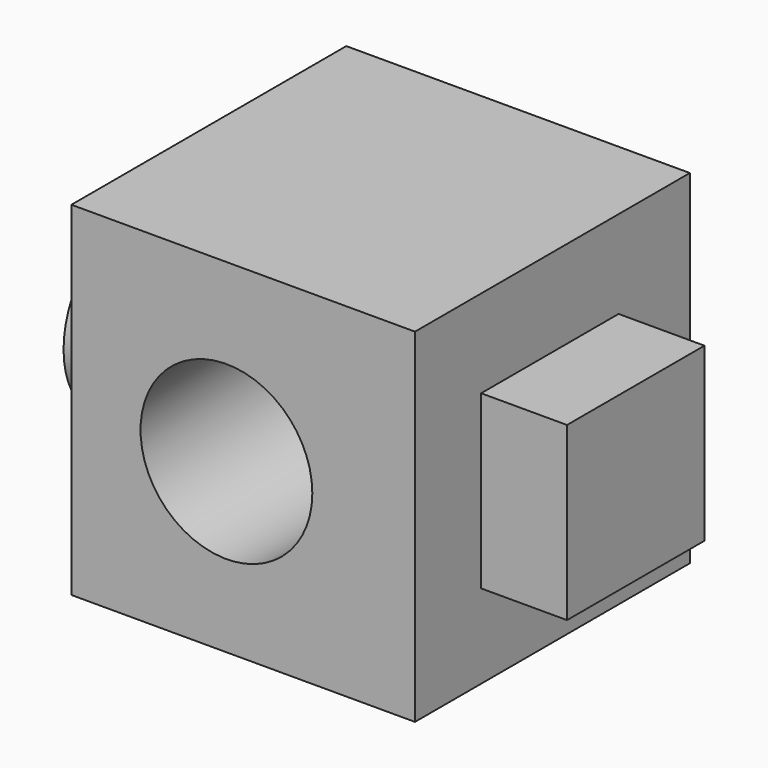
from build123d import *

# Parameters (mm, degrees)
F0_W     = 50.8
F0_H     = 50.8
F1_DEPTH = 50.8
F2_R     = 12.7
F3_DEPTH = 50.8
F4_R     = 12.7
F5_DEPTH = 12.7
F7_W     = 25.4
F7_H     = 25.4
F8_DEPTH = 12.7


with BuildPart() as f1:
    # F0 (on Front) → F1 (new body)
    with BuildSketch(Plane.XZ):
        with Locations((-25.4, 25.4)):
            Rectangle(F0_W, F0_H)
    extrude(amount=F1_DEPTH)

    # F2 (on face) → F3 (cut)
    with BuildSketch(Plane.XZ.offset(50.8)):
        with Locations((-27.87938, 24.824105)):
            Circle(F2_R)
    extrude(amount=-F3_DEPTH, mode=Mode.SUBTRACT)

    # F4 (on face) → F5 (join)
    with BuildSketch(Plane(origin=(-50.8, 0, 0), x_dir=(0, -1, 0), z_dir=(-1, 0, 0))):
        with Locations((23.678379, 21.959785)):
            Circle(F4_R)
    extrude(amount=F5_DEPTH)

    # F7 (on face) → F8 (join)
    with BuildSketch(Plane.YZ):
        with Locations((-25.875871, 25.112053)):
            Rectangle(F7_W, F7_H)
    extrude(amount=F8_DEPTH)


solid = f1.part
